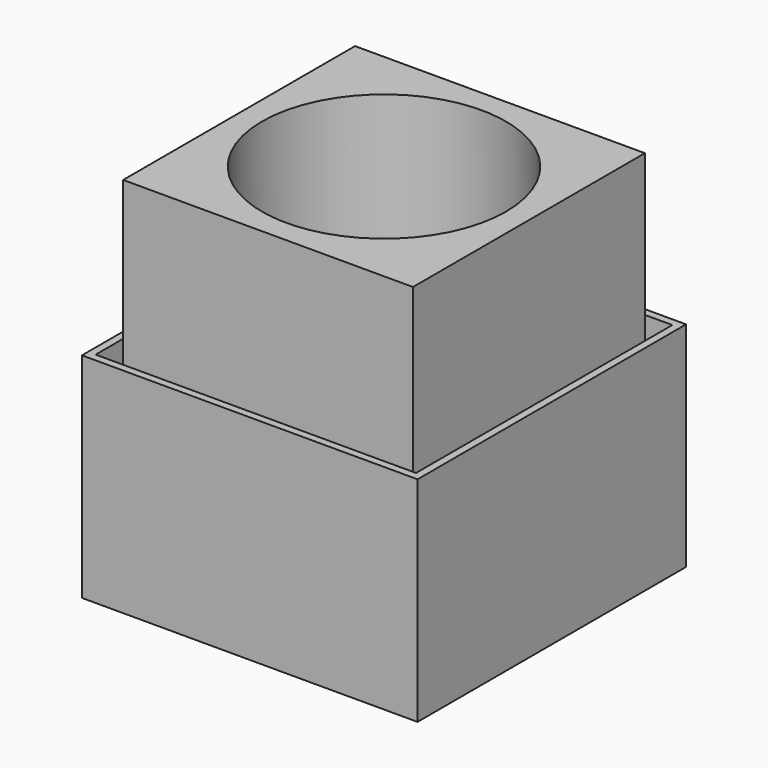
from build123d import *

# Parameters (mm, degrees)
F0_W      = 69.85
F0_H      = 69.85
F1_DEPTH  = 1.5875
F2_W      = 69.85
F2_H      = 69.85
F2_W_2    = 66.675
F2_H_2    = 66.675
F3_DEPTH  = 42.8625
F4_W      = 60.325
F4_H      = 60.325
F4_W_2    = 57.15
F4_H_2    = 57.15
F5_DEPTH  = 74.6125
F6_W      = 57.15
F6_H      = 1.5875
F7_DEPTH  = 58.7375
F8_R      = 25.4
F9_DEPTH  = 74.6125
F10_R     = 26.9875
F10_R_2   = 25.4
F11_DEPTH = 76.2


with BuildPart() as f1:
    # F0 (on Top) → F1 (new body)
    with BuildSketch(Plane.XY):
        Rectangle(F0_W, F0_H)
    extrude(amount=F1_DEPTH)

    # F2 (on face) → F3 (join)
    with BuildSketch(Plane.XY.offset(1.5875)):
        Rectangle(F2_W, F2_H)
        Rectangle(F2_W_2, F2_H_2, mode=Mode.SUBTRACT)
    extrude(amount=F3_DEPTH)

    # F4 (on face) → F5 (join)
    with BuildSketch(Plane.XY.offset(1.5875)):
        Rectangle(F4_W, F4_H)
        Rectangle(F4_W_2, F4_H_2, mode=Mode.SUBTRACT)
    extrude(amount=F5_DEPTH)

    # F6 (on face) → F7 (join)
    with BuildSketch(Plane.YZ.offset(-28.575)):
        with Locations((0, 75.40625)):
            Rectangle(F6_W, F6_H)
    extrude(amount=F7_DEPTH)

    # F8 (on face) → F9 (cut)
    with BuildSketch(Plane.XY.offset(76.2)):
        Circle(F8_R)
    extrude(amount=-F9_DEPTH, mode=Mode.SUBTRACT)

    # F10 (on face) → F11 (join)
    with BuildSketch(Plane.XY.offset(76.2)):
        Circle(F10_R)
        Circle(F10_R_2, mode=Mode.SUBTRACT)
    extrude(amount=-F11_DEPTH)


solid = f1.part
